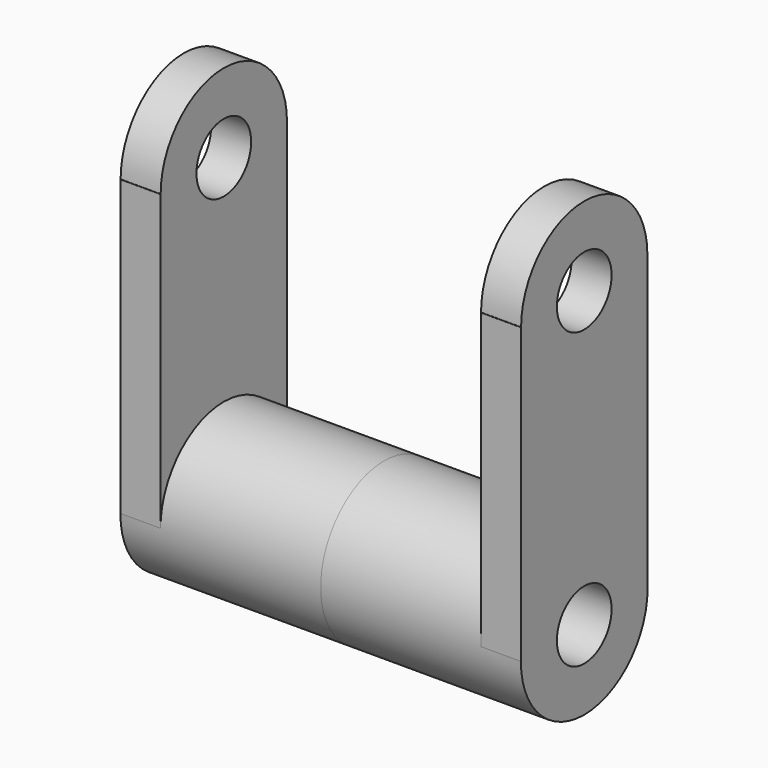
from build123d import *

# Parameters (mm, degrees)
F0_R      = 31.646266
F1_DEPTH  = 80
F3_DEPTH  = 16
F4_R      = 31.533249
F5_DEPTH  = 16
F7_R      = 13.658774
F8_DEPTH  = 193
F9_R      = 13.658775
F10_DEPTH = 212


with BuildPart() as f1:
    # F0 (on Right) → F1 (new body)
    with BuildSketch(Plane.YZ):
        Circle(F0_R)
    extrude(amount=F1_DEPTH)

    # F2 (on face) → F3 (join)
    with BuildSketch(Plane.YZ.offset(80)):
        with BuildLine():
            Line((31.646266, 0), (31.646266, 117.492504))
            Line((31.646266, 117.492504), (-31.646266, 117.492504))
            Line((-31.646266, 117.492504), (-31.646266, 0))
            ThreePointArc((-31.646266, 0), (0, 31.646266), (31.646266, 0))
        make_face()
        with BuildLine():
            ThreePointArc((-31.646266, 0), (0, -31.646266), (31.646266, 0))
            Line((31.646266, 0), (-31.646266, 0))
        make_face()
    extrude(amount=-F3_DEPTH)

    # F4 (on face) → F5 (join)
    with BuildSketch(Plane.YZ.offset(80)):
        with Locations((0, 117.492504)):
            Circle(F4_R)
    extrude(amount=-F5_DEPTH)

    # F6: F1 across face


with BuildPart() as f1_1:
    add(f1.part)
    add(f1.part.mirror(Plane(origin=(0, 0, 0), x_dir=(0, 1, 0), z_dir=(-1, 0, 0))))

    # F7 (on face) → F8 (cut)
    with BuildSketch(Plane.YZ.offset(80)):
        Circle(F7_R)
    extrude(amount=-F8_DEPTH, mode=Mode.SUBTRACT)

    # F9 (on face) → F10 (cut)
    with BuildSketch(Plane.YZ.offset(80)):
        with Locations((0, 117.492504)):
            Circle(F9_R)
    extrude(amount=-F10_DEPTH, mode=Mode.SUBTRACT)


solid = f1_1.part
